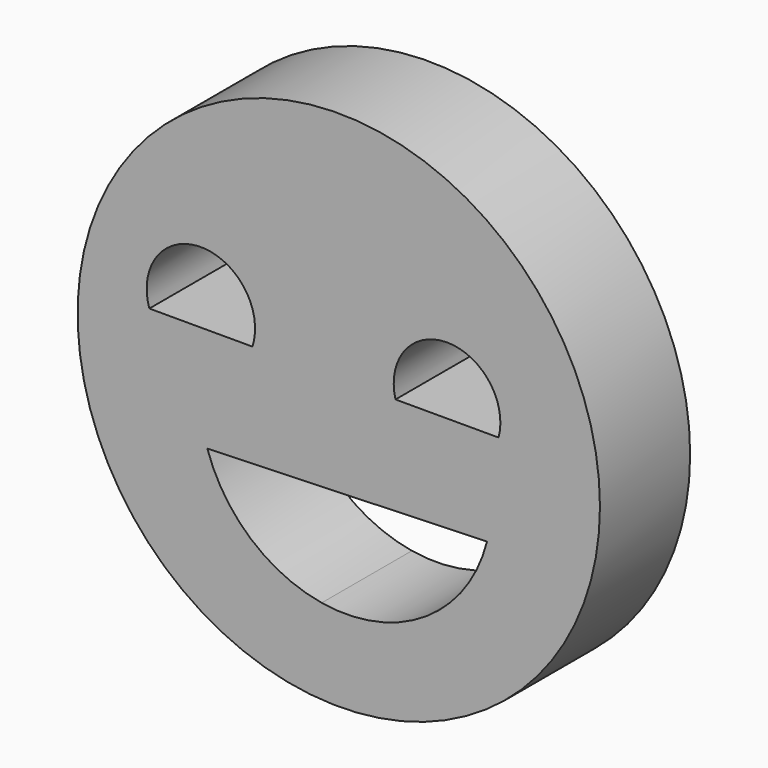
from build123d import *

# Parameters (mm, degrees)
F0_R     = 58.853969
F1_DEPTH = 25.4


with BuildPart() as f1:
    # F0 (on Front) → F1 (new body)
    with BuildSketch(Plane.XZ):
        Circle(F0_R)
        with BuildLine():
            ThreePointArc((-3.849568, -39.504157), (-19.841394, -31.993164), (-29.622577, -17.279837))
            Line((-29.622577, -17.279837), (33.398006, -15.246916))
            ThreePointArc((33.398006, -15.246916), (28.39091, -26.088894), (19.836277, -34.421826))
            ThreePointArc((19.836277, -34.421826), (8.479387, -39.228113), (-3.849568, -39.504157))
        make_face(mode=Mode.SUBTRACT)
        with BuildLine():
            Line((-19.457968, 6.243975), (-42.691361, 6.243975))
            ThreePointArc((-42.691361, 6.243975), (-31.074665, 22.220387), (-19.457968, 6.243975))
        make_face(mode=Mode.SUBTRACT)
        with BuildLine():
            ThreePointArc((12.778366, 6.243975), (24.395064, 21.34293), (36.011763, 6.243975))
            Line((36.011763, 6.243975), (12.778366, 6.243975))
        make_face(mode=Mode.SUBTRACT)
    extrude(amount=F1_DEPTH)


solid = f1.part
